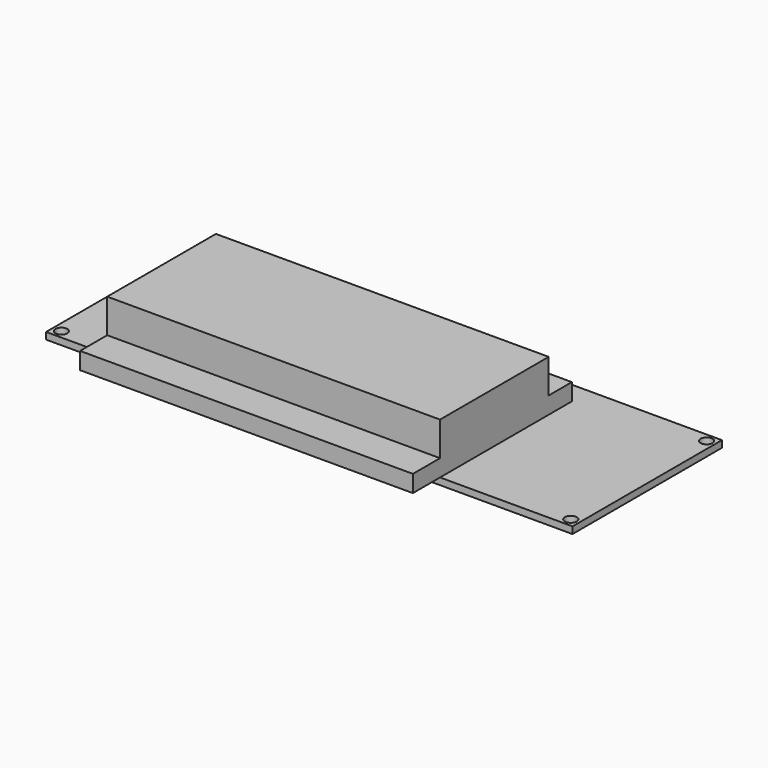
from build123d import *

# Parameters (mm, degrees)
F0_W     = 155
F0_H     = 55
F0_R     = 1.75
F1_DEPTH = 2
F2_W     = 98
F2_H     = 48.51198
F2_H_2   = 10
F3_DEPTH = 5
F4_W     = 98
F4_H     = 40
F5_DEPTH = 10


with BuildPart() as f1:
    # F0 (on Top) → F1 (new body)
    with BuildSketch(Plane.XY):
        Rectangle(F0_W, F0_H)
        with Locations((-75, -25)):
            Circle(F0_R, mode=Mode.SUBTRACT)
        with Locations((75, -25)):
            Circle(F0_R, mode=Mode.SUBTRACT)
        with Locations((-75, 25)):
            Circle(F0_R, mode=Mode.SUBTRACT)
        with Locations((75, 25)):
            Circle(F0_R, mode=Mode.SUBTRACT)
    extrude(amount=F1_DEPTH)

    # F2 (on face) → F3 (join)
    with BuildSketch(Plane.XY.offset(2)):
        with Locations((-10.5, -3.24401)):
            Rectangle(F2_W, F2_H)
        with Locations((-10.5, -32.5)):
            Rectangle(F2_W, F2_H_2)
    extrude(amount=F3_DEPTH)

    # F4 (on face) → F5 (join)
    with BuildSketch(Plane.XY.offset(7)):
        with Locations((-10.5, -7.5)):
            Rectangle(F4_W, F4_H)
    extrude(amount=F5_DEPTH)


solid = f1.part
